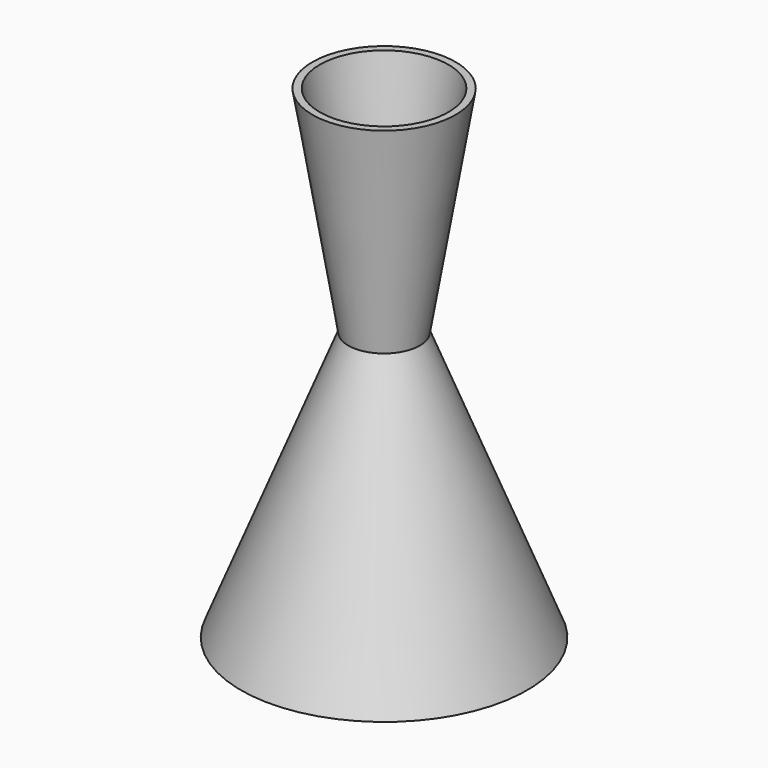
from build123d import *

# Parameters (mm, degrees)
F2_T = -2


with BuildPart() as f1:
    # F0 (on Front) → F1 (revolve)
    with BuildSketch(Plane.XZ):
        Polygon((0, 60), (-20, 60), (-10, 0), (-40, -75), (0, -75), align=None)
    revolve(axis=Axis((0, 0, -7.5), (0, 0, -1)))

    # F2
    f2_openings = [f1.faces().sort_by_distance(p)[0] for p in [
        (0, 0, -75),
        (0, 0, 60),
    ]]
    offset(amount=F2_T, openings=f2_openings, kind=Kind.INTERSECTION)


solid = f1.part
